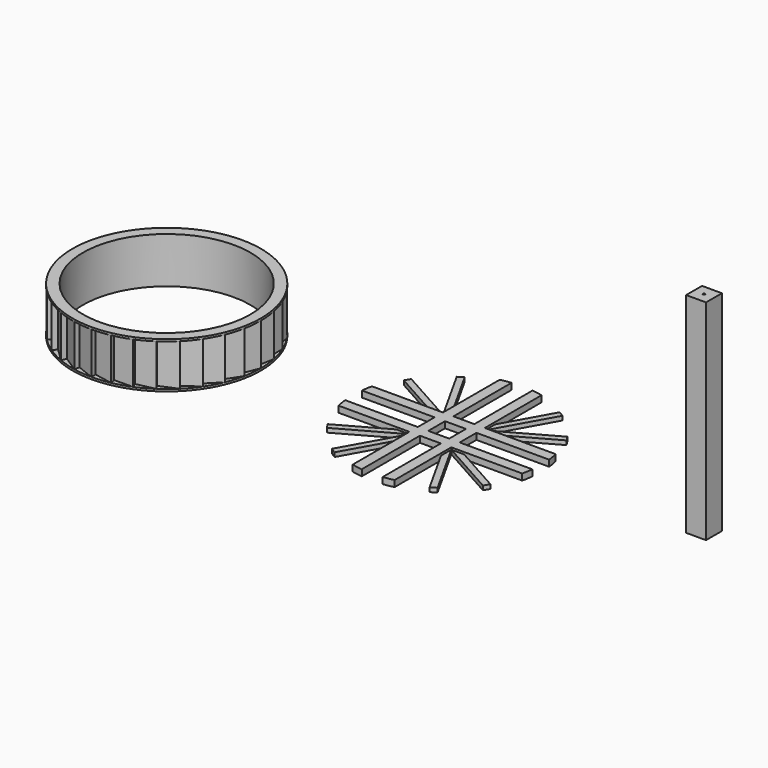
from build123d import *

# Parameters (mm, degrees)
F0_R     = 4
F1_DEPTH = 1
F2_DEPTH = 0.1
F4_SCALE = 10
F6_DEPTH = 3
F7_DEPTH = 2
F5_W     = 9.5
F5_H     = 9.5
F5_R     = 0.5
F8_DEPTH = 50
F9_DEPTH = 2


with BuildPart() as f1:
    # F0 (on Top) → F1 (new body)
    with BuildSketch(Plane.XY):
        Polygon((4.1683374417, -0.8291338686), (4.5, 0), (4.25, 0), (4.4135337618, 0.8779064491), (4.1683374417, 0.8291338686), (4.1574578963, 1.7220754456), (3.9264880132, 1.6264045876), (3.7416132554, 2.5000660486), (3.5337458523, 2.3611734903), (3.1819805153, 3.1819805153), (3.00520382, 3.00520382), (2.5000660486, 3.7416132554), (2.3611734903, 3.5337458523), (1.7220754456, 4.1574578963), (1.6264045876, 3.9264880132), (0.8779064491, 4.4135337618), (0.8291338686, 4.1683374417), (0, 4.5), (0, 4.25), (-0.8779064491, 4.4135337618), (-0.8291338686, 4.1683374417), (-1.7220754456, 4.1574578963), (-1.6264045876, 3.9264880132), (-2.5000660486, 3.7416132554), (-2.3611734903, 3.5337458523), (-3.1819805153, 3.1819805153), (-3.00520382, 3.00520382), (-3.7416132554, 2.5000660486), (-3.5337458523, 2.3611734903), (-4.1574578963, 1.7220754456), (-3.9264880132, 1.6264045876), (-4.4135337618, 0.8779064491), (-4.1683374417, 0.8291338686), (-4.5, 0), (-4.25, 0), (-4.4135337618, -0.8779064491), (-4.1683374417, -0.8291338686), (-4.1574578963, -1.7220754456), (-3.9264880132, -1.6264045876), (-3.7416132554, -2.5000660486), (-3.5337458523, -2.3611734903), (-3.1819805153, -3.1819805153), (-3.00520382, -3.00520382), (-2.5000660486, -3.7416132554), (-2.3611734903, -3.5337458523), (-1.7220754456, -4.1574578963), (-1.6264045876, -3.9264880132), (-0.8779064491, -4.4135337618), (-0.8291338686, -4.1683374417), (0, -4.5), (0, -4.25), (0.8779064491, -4.4135337618), (0.8291338686, -4.1683374417), (1.7220754456, -4.1574578963), (1.6264045876, -3.9264880132), (2.5000660486, -3.7416132554), (2.3611734903, -3.5337458523), (3.1819805153, -3.1819805153), (3.00520382, -3.00520382), (3.7416132554, -2.5000660486), (3.5337458523, -2.3611734903), (4.1574578963, -1.7220754456), (3.9264880132, -1.6264045876), (4.4135337618, -0.8779064491), align=None)
        Circle(F0_R, mode=Mode.SUBTRACT)
    extrude(amount=F1_DEPTH)

    # F0 (on Top) → F2 (join)
    with BuildSketch(Plane.XY):
        with BuildLine():
            Line((2.3611734903, 3.5337458523), (2.5000660486, 3.7416132554))
            ThreePointArc((2.5000660486, 3.7416132554), (2.1212853157, 3.9686456896), (1.7220754456, 4.1574578963))
            Line((1.7220754456, 4.1574578963), (2.3611734903, 3.5337458523))
        make_face()
        with BuildLine():
            Line((-3.9264880132, 1.6264045876), (-4.1574578963, 1.7220754456))
            ThreePointArc((-4.1574578963, 1.7220754456), (-4.3062315108, 1.3062810476), (-4.4135337618, 0.8779064491))
            Line((-4.4135337618, 0.8779064491), (-3.9264880132, 1.6264045876))
        make_face()
        with BuildLine():
            ThreePointArc((1.7220754456, -4.1574578963), (2.1212853157, -3.9686456896), (2.5000660486, -3.7416132554))
            Line((2.5000660486, -3.7416132554), (1.6264045876, -3.9264880132))
            Line((1.6264045876, -3.9264880132), (1.7220754456, -4.1574578963))
        make_face()
        with BuildLine():
            Line((3.00520382, 3.00520382), (3.1819805153, 3.1819805153))
            ThreePointArc((3.1819805153, 3.1819805153), (2.8547697787, 3.4785470401), (2.5000660486, 3.7416132554))
            Line((2.5000660486, 3.7416132554), (3.00520382, 3.00520382))
        make_face()
        with BuildLine():
            ThreePointArc((-4.5, 0), (-4.47833127, -0.4410771315), (-4.4135337618, -0.8779064491))
            Line((-4.4135337618, -0.8779064491), (-4.25, 0))
            Line((-4.25, 0), (-4.5, 0))
        make_face()
        with BuildLine():
            Line((3.9264880132, 1.6264045876), (4.1574578963, 1.7220754456))
            ThreePointArc((4.1574578963, 1.7220754456), (3.9686456896, 2.1212853157), (3.7416132554, 2.5000660486))
            Line((3.7416132554, 2.5000660486), (3.9264880132, 1.6264045876))
        make_face()
        with BuildLine():
            Line((-4.1683374417, 0.8291338686), (-4.4135337618, 0.8779064491))
            ThreePointArc((-4.4135337618, 0.8779064491), (-4.47833127, 0.4410771315), (-4.5, 0))
            Line((-4.5, 0), (-4.1683374417, 0.8291338686))
        make_face()
        with BuildLine():
            ThreePointArc((-4.1574578963, -1.7220754456), (-3.9686456896, -2.1212853157), (-3.7416132554, -2.5000660486))
            Line((-3.7416132554, -2.5000660486), (-3.9264880132, -1.6264045876))
            Line((-3.9264880132, -1.6264045876), (-4.1574578963, -1.7220754456))
        make_face()
        with BuildLine():
            Line((4.25, 0), (4.5, 0))
            ThreePointArc((4.5, 0), (4.47833127, 0.4410771315), (4.4135337618, 0.8779064491))
            Line((4.4135337618, 0.8779064491), (4.25, 0))
        make_face()
        with BuildLine():
            ThreePointArc((4.4135337618, -0.8779064491), (4.47833127, -0.4410771315), (4.5, 0))
            Line((4.5, 0), (4.1683374417, -0.8291338686))
            Line((4.1683374417, -0.8291338686), (4.4135337618, -0.8779064491))
        make_face()
        with BuildLine():
            Line((-3.00520382, 3.00520382), (-3.1819805153, 3.1819805153))
            ThreePointArc((-3.1819805153, 3.1819805153), (-3.4785470401, 2.8547697787), (-3.7416132554, 2.5000660486))
            Line((-3.7416132554, 2.5000660486), (-3.00520382, 3.00520382))
        make_face()
        with BuildLine():
            ThreePointArc((3.1819805153, -3.1819805153), (3.4785470401, -2.8547697787), (3.7416132554, -2.5000660486))
            Line((3.7416132554, -2.5000660486), (3.00520382, -3.00520382))
            Line((3.00520382, -3.00520382), (3.1819805153, -3.1819805153))
        make_face()
        with BuildLine():
            Line((-2.3611734903, 3.5337458523), (-2.5000660486, 3.7416132554))
            ThreePointArc((-2.5000660486, 3.7416132554), (-2.8547697787, 3.4785470401), (-3.1819805153, 3.1819805153))
            Line((-3.1819805153, 3.1819805153), (-2.3611734903, 3.5337458523))
        make_face()
        with BuildLine():
            ThreePointArc((-2.5000660486, -3.7416132554), (-2.1212853157, -3.9686456896), (-1.7220754456, -4.1574578963))
            Line((-1.7220754456, -4.1574578963), (-2.3611734903, -3.5337458523))
            Line((-2.3611734903, -3.5337458523), (-2.5000660486, -3.7416132554))
        make_face()
        with BuildLine():
            ThreePointArc((-1.7220754456, -4.1574578963), (-1.3062810476, -4.3062315108), (-0.8779064491, -4.4135337618))
            Line((-0.8779064491, -4.4135337618), (-1.6264045876, -3.9264880132))
            Line((-1.6264045876, -3.9264880132), (-1.7220754456, -4.1574578963))
        make_face()
        with BuildLine():
            ThreePointArc((0.8779064491, -4.4135337618), (1.3062810476, -4.3062315108), (1.7220754456, -4.1574578963))
            Line((1.7220754456, -4.1574578963), (0.8291338686, -4.1683374417))
            Line((0.8291338686, -4.1683374417), (0.8779064491, -4.4135337618))
        make_face()
        with BuildLine():
            ThreePointArc((-3.7416132554, -2.5000660486), (-3.4785470401, -2.8547697787), (-3.1819805153, -3.1819805153))
            Line((-3.1819805153, -3.1819805153), (-3.5337458523, -2.3611734903))
            Line((-3.5337458523, -2.3611734903), (-3.7416132554, -2.5000660486))
        make_face()
        with BuildLine():
            ThreePointArc((2.5000660486, -3.7416132554), (2.8547697787, -3.4785470401), (3.1819805153, -3.1819805153))
            Line((3.1819805153, -3.1819805153), (2.3611734903, -3.5337458523))
            Line((2.3611734903, -3.5337458523), (2.5000660486, -3.7416132554))
        make_face()
        with BuildLine():
            Line((-0.8291338686, 4.1683374417), (-0.8779064491, 4.4135337618))
            ThreePointArc((-0.8779064491, 4.4135337618), (-1.3062810476, 4.3062315108), (-1.7220754456, 4.1574578963))
            Line((-1.7220754456, 4.1574578963), (-0.8291338686, 4.1683374417))
        make_face()
        Polygon((4.1683374417, -0.8291338686), (4.5, 0), (4.25, 0), (4.4135337618, 0.8779064491), (4.1683374417, 0.8291338686), (4.1574578963, 1.7220754456), (3.9264880132, 1.6264045876), (3.7416132554, 2.5000660486), (3.5337458523, 2.3611734903), (3.1819805153, 3.1819805153), (3.00520382, 3.00520382), (2.5000660486, 3.7416132554), (2.3611734903, 3.5337458523), (1.7220754456, 4.1574578963), (1.6264045876, 3.9264880132), (0.8779064491, 4.4135337618), (0.8291338686, 4.1683374417), (0, 4.5), (0, 4.25), (-0.8779064491, 4.4135337618), (-0.8291338686, 4.1683374417), (-1.7220754456, 4.1574578963), (-1.6264045876, 3.9264880132), (-2.5000660486, 3.7416132554), (-2.3611734903, 3.5337458523), (-3.1819805153, 3.1819805153), (-3.00520382, 3.00520382), (-3.7416132554, 2.5000660486), (-3.5337458523, 2.3611734903), (-4.1574578963, 1.7220754456), (-3.9264880132, 1.6264045876), (-4.4135337618, 0.8779064491), (-4.1683374417, 0.8291338686), (-4.5, 0), (-4.25, 0), (-4.4135337618, -0.8779064491), (-4.1683374417, -0.8291338686), (-4.1574578963, -1.7220754456), (-3.9264880132, -1.6264045876), (-3.7416132554, -2.5000660486), (-3.5337458523, -2.3611734903), (-3.1819805153, -3.1819805153), (-3.00520382, -3.00520382), (-2.5000660486, -3.7416132554), (-2.3611734903, -3.5337458523), (-1.7220754456, -4.1574578963), (-1.6264045876, -3.9264880132), (-0.8779064491, -4.4135337618), (-0.8291338686, -4.1683374417), (0, -4.5), (0, -4.25), (0.8779064491, -4.4135337618), (0.8291338686, -4.1683374417), (1.7220754456, -4.1574578963), (1.6264045876, -3.9264880132), (2.5000660486, -3.7416132554), (2.3611734903, -3.5337458523), (3.1819805153, -3.1819805153), (3.00520382, -3.00520382), (3.7416132554, -2.5000660486), (3.5337458523, -2.3611734903), (4.1574578963, -1.7220754456), (3.9264880132, -1.6264045876), (4.4135337618, -0.8779064491), align=None)
        Circle(F0_R, mode=Mode.SUBTRACT)
        with BuildLine():
            Line((-3.5337458523, 2.3611734903), (-3.7416132554, 2.5000660486))
            ThreePointArc((-3.7416132554, 2.5000660486), (-3.9686456896, 2.1212853157), (-4.1574578963, 1.7220754456))
            Line((-4.1574578963, 1.7220754456), (-3.5337458523, 2.3611734903))
        make_face()
        with BuildLine():
            ThreePointArc((0, -4.5), (0.4410771315, -4.47833127), (0.8779064491, -4.4135337618))
            Line((0.8779064491, -4.4135337618), (0, -4.25))
            Line((0, -4.25), (0, -4.5))
        make_face()
        with BuildLine():
            Line((4.1683374417, 0.8291338686), (4.4135337618, 0.8779064491))
            ThreePointArc((4.4135337618, 0.8779064491), (4.3062315108, 1.3062810476), (4.1574578963, 1.7220754456))
            Line((4.1574578963, 1.7220754456), (4.1683374417, 0.8291338686))
        make_face()
        with BuildLine():
            ThreePointArc((-3.1819805153, -3.1819805153), (-2.8547697787, -3.4785470401), (-2.5000660486, -3.7416132554))
            Line((-2.5000660486, -3.7416132554), (-3.00520382, -3.00520382))
            Line((-3.00520382, -3.00520382), (-3.1819805153, -3.1819805153))
        make_face()
        with BuildLine():
            Line((-1.6264045876, 3.9264880132), (-1.7220754456, 4.1574578963))
            ThreePointArc((-1.7220754456, 4.1574578963), (-2.1212853157, 3.9686456896), (-2.5000660486, 3.7416132554))
            Line((-2.5000660486, 3.7416132554), (-1.6264045876, 3.9264880132))
        make_face()
        with BuildLine():
            ThreePointArc((-4.4135337618, -0.8779064491), (-4.3062315108, -1.3062810476), (-4.1574578963, -1.7220754456))
            Line((-4.1574578963, -1.7220754456), (-4.1683374417, -0.8291338686))
            Line((-4.1683374417, -0.8291338686), (-4.4135337618, -0.8779064491))
        make_face()
        with BuildLine():
            Line((1.6264045876, 3.9264880132), (1.7220754456, 4.1574578963))
            ThreePointArc((1.7220754456, 4.1574578963), (1.3062810476, 4.3062315108), (0.8779064491, 4.4135337618))
            Line((0.8779064491, 4.4135337618), (1.6264045876, 3.9264880132))
        make_face()
        with BuildLine():
            Line((3.5337458523, 2.3611734903), (3.7416132554, 2.5000660486))
            ThreePointArc((3.7416132554, 2.5000660486), (3.4785470401, 2.8547697787), (3.1819805153, 3.1819805153))
            Line((3.1819805153, 3.1819805153), (3.5337458523, 2.3611734903))
        make_face()
        with BuildLine():
            Line((0, 4.25), (0, 4.5))
            ThreePointArc((0, 4.5), (-0.4410771315, 4.47833127), (-0.8779064491, 4.4135337618))
            Line((-0.8779064491, 4.4135337618), (0, 4.25))
        make_face()
        with BuildLine():
            ThreePointArc((3.7416132554, -2.5000660486), (3.9686456896, -2.1212853157), (4.1574578963, -1.7220754456))
            Line((4.1574578963, -1.7220754456), (3.5337458523, -2.3611734903))
            Line((3.5337458523, -2.3611734903), (3.7416132554, -2.5000660486))
        make_face()
        with BuildLine():
            ThreePointArc((4.1574578963, -1.7220754456), (4.3062315108, -1.3062810476), (4.4135337618, -0.8779064491))
            Line((4.4135337618, -0.8779064491), (3.9264880132, -1.6264045876))
            Line((3.9264880132, -1.6264045876), (4.1574578963, -1.7220754456))
        make_face()
        with BuildLine():
            Line((0.8291338686, 4.1683374417), (0.8779064491, 4.4135337618))
            ThreePointArc((0.8779064491, 4.4135337618), (0.4410771315, 4.47833127), (0, 4.5))
            Line((0, 4.5), (0.8291338686, 4.1683374417))
        make_face()
        with BuildLine():
            ThreePointArc((-0.8779064491, -4.4135337618), (-0.4410771315, -4.47833127), (0, -4.5))
            Line((0, -4.5), (-0.8291338686, -4.1683374417))
            Line((-0.8291338686, -4.1683374417), (-0.8779064491, -4.4135337618))
        make_face()
    extrude(amount=-F2_DEPTH)

    # F3: F1 across face


with BuildPart() as f1_1:
    add(f1.part)
    add(f1.part.mirror(Plane.XY.offset(1)))


with BuildPart() as f1_2:
    # F4: moved
    add(f1_1.part.scale(F4_SCALE))


with BuildPart() as f6:
    # F5 (on Top) → F6 (new body)
    with BuildSketch(Plane.XY):
        with BuildLine():
            Line((143.9585232735, 5), (178.6798828235, 5))
            ThreePointArc((178.6798828235, 5), (178.3271027359, 7.5119342704), (177.8333452104, 10))
            Line((177.8333452104, 10), (150.1087505063, 10))
            Line((150.1087505063, 10), (143.9585232735, 10))
            Line((143.9585232735, 10), (143.9585232735, 16.1502272329))
            Line((143.9585232735, 16.1502272329), (143.9585232735, 43.874821937))
            ThreePointArc((143.9585232735, 43.874821937), (141.4704575439, 44.3685794625), (138.9585232735, 44.72135955))
            Line((138.9585232735, 44.72135955), (138.9585232735, 10))
            Line((138.9585232735, 10), (128.9585232735, 10))
            Line((128.9585232735, 10), (128.9585232735, 44.72135955))
            ThreePointArc((128.9585232735, 44.72135955), (126.4465890031, 44.3685794625), (123.9585232735, 43.874821937))
            Line((123.9585232735, 43.874821937), (123.9585232735, 16.1502272329))
            Line((123.9585232735, 16.1502272329), (123.9585232735, 10))
            Line((123.9585232735, 10), (117.8082960406, 10))
            Line((117.8082960406, 10), (90.0837013365, 10))
            ThreePointArc((90.0837013365, 10), (89.589943811, 7.5119342704), (89.2371637235, 5))
            Line((89.2371637235, 5), (123.9585232735, 5))
            Line((123.9585232735, 5), (123.9585232735, 0))
            Line((123.9585232735, 0), (123.9585232735, -5))
            Line((123.9585232735, -5), (89.2371637235, -5))
            ThreePointArc((89.2371637235, -5), (89.589943811, -7.5119342704), (90.0837013365, -10))
            Line((90.0837013365, -10), (117.8082960406, -10))
            Line((117.8082960406, -10), (123.9585232735, -10))
            Line((123.9585232735, -10), (123.9585232735, -16.1502272329))
            Line((123.9585232735, -16.1502272329), (123.9585232735, -43.874821937))
            ThreePointArc((123.9585232735, -43.874821937), (126.4465890031, -44.3685794625), (128.9585232735, -44.72135955))
            Line((128.9585232735, -44.72135955), (128.9585232735, -10))
            Line((128.9585232735, -10), (138.9585232735, -10))
            Line((138.9585232735, -10), (138.9585232735, -44.72135955))
            ThreePointArc((138.9585232735, -44.72135955), (141.4704575439, -44.3685794625), (143.9585232735, -43.874821937))
            Line((143.9585232735, -43.874821937), (143.9585232735, -16.1502272329))
            Line((143.9585232735, -16.1502272329), (143.9585232735, -10))
            Line((143.9585232735, -10), (150.1087505063, -10))
            Line((150.1087505063, -10), (177.8333452104, -10))
            ThreePointArc((177.8333452104, -10), (178.3271027359, -7.5119342704), (178.6798828235, -5))
            Line((178.6798828235, -5), (143.9585232735, -5))
            Line((143.9585232735, -5), (143.9585232735, 0))
            Line((143.9585232735, 0), (143.9585232735, 5))
        make_face()
        Polygon((138.9585232735, 5), (138.9585232735, 0), (138.9585232735, -5), (128.9585232735, -5), (128.9585232735, 0), (128.9585232735, 5), align=None, mode=Mode.SUBTRACT)
    extrude(amount=F6_DEPTH)

    # F5 (on Top) → F7 (join)
    with BuildSketch(Plane.XY):
        with BuildLine():
            Line((117.8082960406, 10), (123.9585232735, 10))
            Line((123.9585232735, 10), (96.6982044943, 25.2322936824))
            ThreePointArc((96.6982044943, 25.2322936824), (95.8767385182, 23.9745212644), (95.0977134746, 22.6900300083))
            Line((95.0977134746, 22.6900300083), (117.8082960406, 10))
        make_face()
        with BuildLine():
            Line((123.9585232735, 16.1502272329), (111.2684932652, 38.8608097988))
            ThreePointArc((111.2684932652, 38.8608097988), (109.9840020091, 38.0817847552), (108.7262295911, 37.2603187792))
            Line((108.7262295911, 37.2603187792), (123.9585232735, 10))
            Line((123.9585232735, 10), (123.9585232735, 16.1502272329))
        make_face()
        with BuildLine():
            Line((143.9585232735, 16.1502272329), (143.9585232735, 10))
            Line((143.9585232735, 10), (159.1908169559, 37.2603187792))
            ThreePointArc((159.1908169559, 37.2603187792), (157.9330445378, 38.0817847552), (156.6485532818, 38.8608097988))
            Line((156.6485532818, 38.8608097988), (143.9585232735, 16.1502272329))
        make_face()
        with BuildLine():
            Line((150.1087505063, 10), (172.8193330723, 22.6900300083))
            ThreePointArc((172.8193330723, 22.6900300083), (172.0403080287, 23.9745212644), (171.2188420526, 25.2322936824))
            Line((171.2188420526, 25.2322936824), (143.9585232735, 10))
            Line((143.9585232735, 10), (150.1087505063, 10))
        make_face()
        with BuildLine():
            ThreePointArc((171.2188420526, -25.2322936824), (172.0403080287, -23.9745212644), (172.8193330723, -22.6900300083))
            Line((172.8193330723, -22.6900300083), (150.1087505063, -10))
            Line((150.1087505063, -10), (143.9585232735, -10))
            Line((143.9585232735, -10), (171.2188420526, -25.2322936824))
        make_face()
        with BuildLine():
            Line((159.1908169559, -37.2603187792), (143.9585232735, -10))
            Line((143.9585232735, -10), (143.9585232735, -16.1502272329))
            Line((143.9585232735, -16.1502272329), (156.6485532818, -38.8608097988))
            ThreePointArc((156.6485532818, -38.8608097988), (157.9330445378, -38.0817847552), (159.1908169559, -37.2603187792))
        make_face()
        with BuildLine():
            ThreePointArc((108.7262295911, -37.2603187792), (109.9840020091, -38.0817847552), (111.2684932652, -38.8608097988))
            Line((111.2684932652, -38.8608097988), (123.9585232735, -16.1502272329))
            Line((123.9585232735, -16.1502272329), (123.9585232735, -10))
            Line((123.9585232735, -10), (108.7262295911, -37.2603187792))
        make_face()
        with BuildLine():
            Line((96.6982044943, -25.2322936824), (123.9585232735, -10))
            Line((123.9585232735, -10), (117.8082960406, -10))
            Line((117.8082960406, -10), (95.0977134746, -22.6900300083))
            ThreePointArc((95.0977134746, -22.6900300083), (95.8767385182, -23.9745212644), (96.6982044943, -25.2322936824))
        make_face()
    extrude(amount=F7_DEPTH)


with BuildPart() as f8:
    # F5 (on Top) → F8 (new body)
    with BuildSketch(Plane.XY):
        with Locations((256.6773891449, 0)):
            Rectangle(F5_W, F5_H)
        with Locations((256.6773891449, 0)):
            Circle(F5_R, mode=Mode.SUBTRACT)
        with Locations((256.6773891449, 0)):
            Circle(F5_R)
    extrude(amount=F8_DEPTH)

    # F5 (on Top) → F9 (cut)
    with BuildSketch(Plane.XY):
        with Locations((256.6773891449, 0)):
            Circle(F5_R)
    extrude(amount=F9_DEPTH, mode=Mode.SUBTRACT)

    # F10: F8 across face


with BuildPart() as f8_1:
    add(f8.part)
    add(f8.part.mirror(Plane(origin=(256.6773891449, 0, 50), x_dir=(1, 0, 0), z_dir=(0, 0, 1))))


solid = Compound([f1_2.part, f6.part, f8_1.part])
